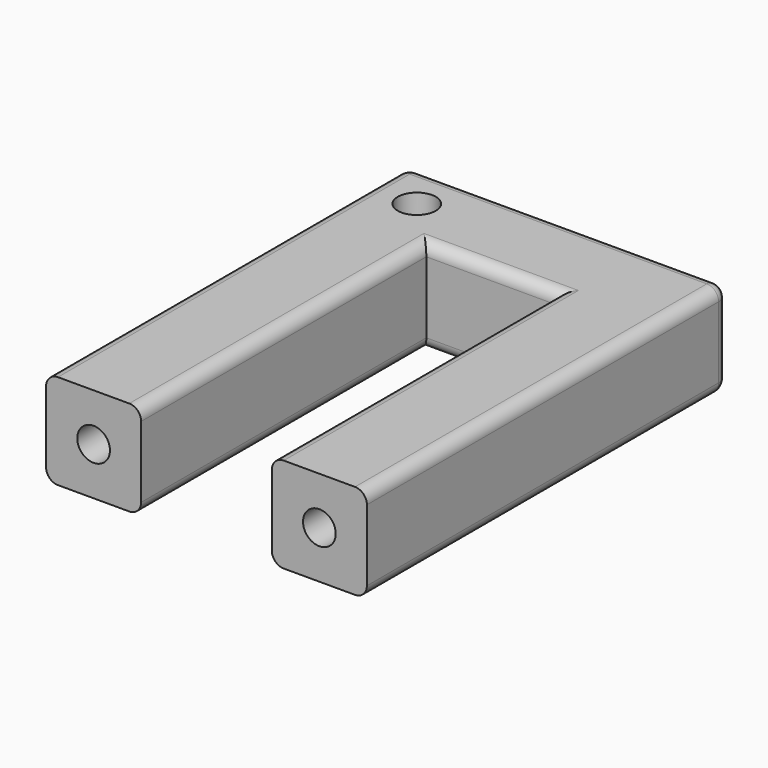
from build123d import *

# Parameters (mm, degrees)
F0_W     = 8
F0_H     = 8
F1_DEPTH = 30
F3_DEPTH = 8
F4_R     = 1.6
F5_DEPTH = 8
F7_R     = 1.375
F8_DEPTH = 15
F9_R     = 1


with BuildPart() as f1:
    # F0 (on Front) → F1 (new body)
    with BuildSketch(Plane.XZ):
        with Locations((-40.509796, 21.073834)):
            Rectangle(F0_W, F0_H)
        with Locations((-21.509796, 21.073834)):
            Rectangle(F0_W, F0_H)
    extrude(amount=F1_DEPTH)


with BuildPart() as f3:
    # F2 (on Front) → F3 (new body)
    with BuildSketch(Plane.XZ):
        Polygon((-17.509796, 25.073834), (-25.509796, 25.073834), (-36.509796, 25.073834), (-44.509796, 25.073834), (-44.509796, 17.073834), (-36.509796, 17.073834), (-25.509796, 17.073834), (-17.509796, 17.073834), align=None)
    extrude(amount=-F3_DEPTH)

    # F4 (on face) → F5 (cut, through all)
    with BuildSketch(Plane.XY.offset(25.073834)):
        with Locations((-40.509796, 4)):
            Circle(F4_R)
    extrude(amount=-F5_DEPTH, mode=Mode.SUBTRACT)


with BuildPart() as f1_1:
    add(f1.part)

    # F6: union F3
    add(f3.part)

    # F7 (on face) → F8 (cut)
    with BuildSketch(Plane.XZ.offset(30)):
        with Locations((-40.509796, 21.073834)):
            Circle(F7_R)
        with Locations((-21.509796, 21.073834)):
            Circle(F7_R)
    extrude(amount=-F8_DEPTH, mode=Mode.SUBTRACT)

    # F9
    f9_edges = [f1_1.edges().sort_by_distance(p)[0] for p in [
        (-44.509796, -11, 25.073834),
        (-36.509796, -15, 25.073834),
        (-31.009796, 0, 25.073834),
        (-31.009796, 8, 25.073834),
        (-44.509796, 8, 21.073834),
        (-31.009796, 8, 17.073834),
        (-17.509796, 8, 21.073834),
        (-25.509796, -15, 25.073834),
        (-17.509796, -11, 25.073834),
        (-17.509796, -11, 17.073834),
        (-25.509796, -15, 17.073834),
        (-31.009796, 0, 17.073834),
        (-36.509796, -15, 17.073834),
        (-44.509796, -11, 17.073834),
    ]]
    fillet(f9_edges, radius=F9_R)


solid = f1_1.part
